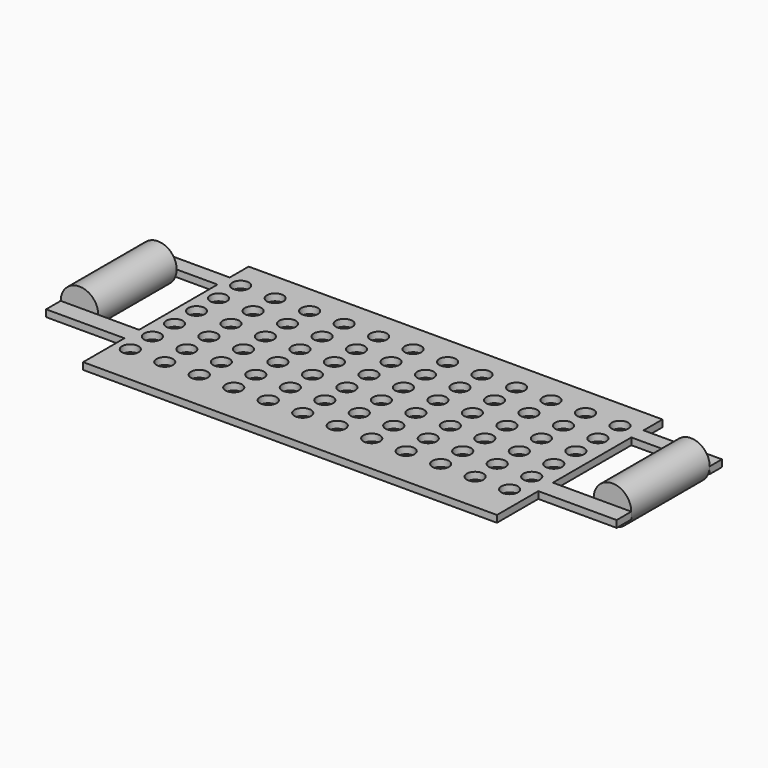
from build123d import *

# Parameters (mm, degrees)
F0_R     = 6
F1_DEPTH = 5
F0_W     = 13.61382
F0_H     = 71.074921


with BuildPart() as f1:
    # F0 (on Top) → F1 (new body)
    with BuildSketch(Plane.XY):
        Polygon((150, 75), (-150, 75), (-150, 57.841782), (-150, 46.769045), (-150, -24.305876), (-150, -37.548404), (-150, -75), (150, -75), (150, -37.548404), (150, -24.305876), (150, 46.769045), (150, 57.841782), align=None)
        with Locations((-139, -46)):
            Circle(F0_R, mode=Mode.SUBTRACT)
        with Locations((-114, -46)):
            Circle(F0_R, mode=Mode.SUBTRACT)
        with Locations((-89, -46)):
            Circle(F0_R, mode=Mode.SUBTRACT)
        with Locations((-64, -46)):
            Circle(F0_R, mode=Mode.SUBTRACT)
        with Locations((-39, -46)):
            Circle(F0_R, mode=Mode.SUBTRACT)
        with Locations((-14, -46)):
            Circle(F0_R, mode=Mode.SUBTRACT)
        with Locations((-139, -26)):
            Circle(F0_R, mode=Mode.SUBTRACT)
        with Locations((-114, -26)):
            Circle(F0_R, mode=Mode.SUBTRACT)
        with Locations((-139, -6)):
            Circle(F0_R, mode=Mode.SUBTRACT)
        with Locations((-114, -6)):
            Circle(F0_R, mode=Mode.SUBTRACT)
        with Locations((-89, -26)):
            Circle(F0_R, mode=Mode.SUBTRACT)
        with Locations((-64, -26)):
            Circle(F0_R, mode=Mode.SUBTRACT)
        with Locations((-39, -26)):
            Circle(F0_R, mode=Mode.SUBTRACT)
        with Locations((-14, -26)):
            Circle(F0_R, mode=Mode.SUBTRACT)
        with Locations((-89, -6)):
            Circle(F0_R, mode=Mode.SUBTRACT)
        with Locations((-64, -6)):
            Circle(F0_R, mode=Mode.SUBTRACT)
        with Locations((-39, -6)):
            Circle(F0_R, mode=Mode.SUBTRACT)
        with Locations((-14, -6)):
            Circle(F0_R, mode=Mode.SUBTRACT)
        with Locations((11, -46)):
            Circle(F0_R, mode=Mode.SUBTRACT)
        with Locations((36, -46)):
            Circle(F0_R, mode=Mode.SUBTRACT)
        with Locations((61, -46)):
            Circle(F0_R, mode=Mode.SUBTRACT)
        with Locations((86, -46)):
            Circle(F0_R, mode=Mode.SUBTRACT)
        with Locations((111, -46)):
            Circle(F0_R, mode=Mode.SUBTRACT)
        with Locations((136, -46)):
            Circle(F0_R, mode=Mode.SUBTRACT)
        with Locations((11, -26)):
            Circle(F0_R, mode=Mode.SUBTRACT)
        with Locations((36, -26)):
            Circle(F0_R, mode=Mode.SUBTRACT)
        with Locations((61, -26)):
            Circle(F0_R, mode=Mode.SUBTRACT)
        with Locations((86, -26)):
            Circle(F0_R, mode=Mode.SUBTRACT)
        with Locations((11, -6)):
            Circle(F0_R, mode=Mode.SUBTRACT)
        with Locations((36, -6)):
            Circle(F0_R, mode=Mode.SUBTRACT)
        with Locations((61, -6)):
            Circle(F0_R, mode=Mode.SUBTRACT)
        with Locations((86, -6)):
            Circle(F0_R, mode=Mode.SUBTRACT)
        with Locations((111, -26)):
            Circle(F0_R, mode=Mode.SUBTRACT)
        with Locations((136, -26)):
            Circle(F0_R, mode=Mode.SUBTRACT)
        with Locations((111, -6)):
            Circle(F0_R, mode=Mode.SUBTRACT)
        with Locations((136, -6)):
            Circle(F0_R, mode=Mode.SUBTRACT)
        with Locations((-139, 14)):
            Circle(F0_R, mode=Mode.SUBTRACT)
        with Locations((-114, 14)):
            Circle(F0_R, mode=Mode.SUBTRACT)
        with Locations((-139, 34)):
            Circle(F0_R, mode=Mode.SUBTRACT)
        with Locations((-114, 34)):
            Circle(F0_R, mode=Mode.SUBTRACT)
        with Locations((-89, 14)):
            Circle(F0_R, mode=Mode.SUBTRACT)
        with Locations((-64, 14)):
            Circle(F0_R, mode=Mode.SUBTRACT)
        with Locations((-39, 14)):
            Circle(F0_R, mode=Mode.SUBTRACT)
        with Locations((-14, 14)):
            Circle(F0_R, mode=Mode.SUBTRACT)
        with Locations((-89, 34)):
            Circle(F0_R, mode=Mode.SUBTRACT)
        with Locations((-64, 34)):
            Circle(F0_R, mode=Mode.SUBTRACT)
        with Locations((-39, 34)):
            Circle(F0_R, mode=Mode.SUBTRACT)
        with Locations((-14, 34)):
            Circle(F0_R, mode=Mode.SUBTRACT)
        with Locations((-139, 54)):
            Circle(F0_R, mode=Mode.SUBTRACT)
        with Locations((-114, 54)):
            Circle(F0_R, mode=Mode.SUBTRACT)
        with Locations((-89, 54)):
            Circle(F0_R, mode=Mode.SUBTRACT)
        with Locations((-64, 54)):
            Circle(F0_R, mode=Mode.SUBTRACT)
        with Locations((-39, 54)):
            Circle(F0_R, mode=Mode.SUBTRACT)
        with Locations((-14, 54)):
            Circle(F0_R, mode=Mode.SUBTRACT)
        with Locations((11, 14)):
            Circle(F0_R, mode=Mode.SUBTRACT)
        with Locations((36, 14)):
            Circle(F0_R, mode=Mode.SUBTRACT)
        with Locations((61, 14)):
            Circle(F0_R, mode=Mode.SUBTRACT)
        with Locations((86, 14)):
            Circle(F0_R, mode=Mode.SUBTRACT)
        with Locations((11, 34)):
            Circle(F0_R, mode=Mode.SUBTRACT)
        with Locations((36, 34)):
            Circle(F0_R, mode=Mode.SUBTRACT)
        with Locations((61, 34)):
            Circle(F0_R, mode=Mode.SUBTRACT)
        with Locations((86, 34)):
            Circle(F0_R, mode=Mode.SUBTRACT)
        with Locations((111, 14)):
            Circle(F0_R, mode=Mode.SUBTRACT)
        with Locations((136, 14)):
            Circle(F0_R, mode=Mode.SUBTRACT)
        with Locations((111, 34)):
            Circle(F0_R, mode=Mode.SUBTRACT)
        with Locations((136, 34)):
            Circle(F0_R, mode=Mode.SUBTRACT)
        with Locations((11, 54)):
            Circle(F0_R, mode=Mode.SUBTRACT)
        with Locations((36, 54)):
            Circle(F0_R, mode=Mode.SUBTRACT)
        with Locations((61, 54)):
            Circle(F0_R, mode=Mode.SUBTRACT)
        with Locations((86, 54)):
            Circle(F0_R, mode=Mode.SUBTRACT)
        with Locations((111, 54)):
            Circle(F0_R, mode=Mode.SUBTRACT)
        with Locations((136, 54)):
            Circle(F0_R, mode=Mode.SUBTRACT)
        Polygon((206.814393, 57.841782), (150, 57.841782), (150, 46.769045), (193.200573, 46.769045), (206.814393, 46.769045), align=None)
        Polygon((193.200573, -24.305876), (150, -24.305876), (150, -37.548404), (206.814393, -37.548404), (206.814393, -24.305876), align=None)
        Polygon((-150, 46.769045), (-150, 57.841782), (-206.814393, 57.841782), (-206.814393, 46.769045), (-193.200573, 46.769045), align=None)
        Polygon((-150, -37.548404), (-150, -24.305876), (-193.200573, -24.305876), (-206.814393, -24.305876), (-206.814393, -37.548404), align=None)
    extrude(amount=-F1_DEPTH)


with BuildPart() as f2:
    # F0 (on Top) → F2 (revolve)
    with BuildSketch(Plane.XY):
        with Locations((-200.007483, 11.231585)):
            Rectangle(F0_W, F0_H)
    revolve(axis=Axis((-193.200573, 11.231584, 0), (0, -1, 0)))


with BuildPart() as f3_1:
    # F3: instance of F2
    add(f2.part.mirror(Plane.YZ))


solid = Compound([f1.part, f2.part, f3_1.part])
